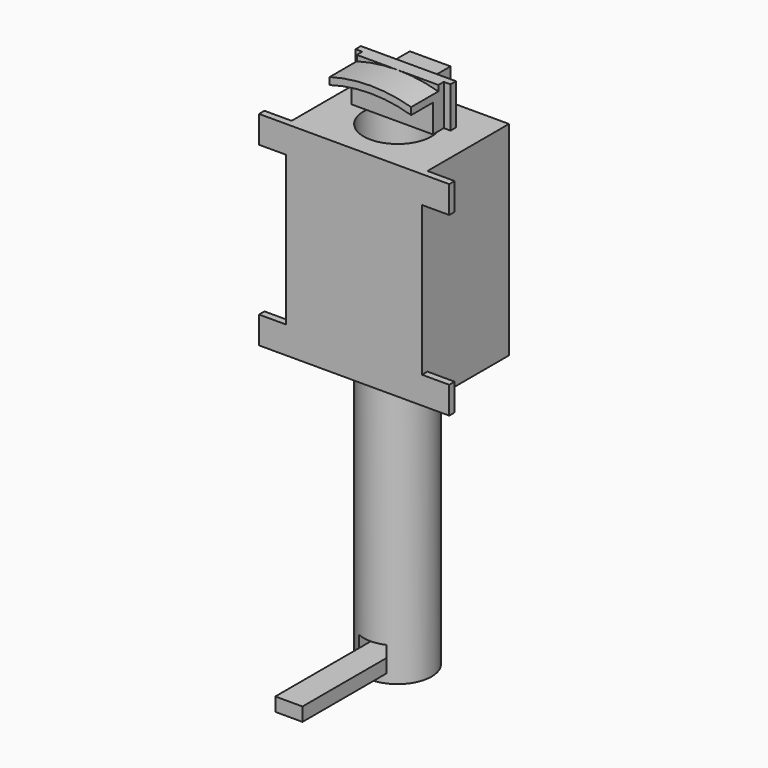
from build123d import *

# Parameters (mm, degrees)
F0_R      = 55
F1_DEPTH  = 12.5
F2_T      = -2.5
F4_DEPTH  = 25
F5_W      = 2.5
F5_H      = 2.5
F6_DEPTH  = 15
F7_W      = 15
F7_H      = 10
F8_DEPTH  = 10
F9_W      = 10
F9_H      = 5
F10_DEPTH = 7.5
F11_W     = 50
F11_H     = 75
F12_DEPTH = 20
F13_R     = 12.5
F14_DEPTH = 75
F15_W     = 10
F15_H     = 10
F16_DEPTH = 2.5
F18_DEPTH = 100
F17_W     = 10
F17_H     = 5
F19_DEPTH = 40
F20_W     = 10
F20_H     = 5
F21_DEPTH = 50


with BuildPart() as f1:
    # F0 (on Front) → F1 (new body)
    with BuildSketch(Plane.XZ):
        Circle(F0_R)
    extrude(amount=F1_DEPTH)

    # F2
    f2_openings = [f1.faces().sort_by_distance(p)[0] for p in [
        (0, -12.5, 0),
    ]]
    offset(amount=F2_T, openings=f2_openings)

    # F3 (on face) → F4 (cut)
    with BuildSketch(Plane.XZ.offset(12.5)):
        with BuildLine():
            Line((-15, 40), (-15, 50.3115294937))
            ThreePointArc((-15, 50.3115294937), (-31.374750995, -42.0936456012), (52.5, 0))
            ThreePointArc((52.5, 0), (42.0936456012, 31.374750995), (15, 50.3115294937))
            Line((15, 50.3115294937), (15, 40))
            Line((15, 40), (-15, 40))
        make_face()
        with BuildLine():
            ThreePointArc((-15, 52.9150262213), (-43.8748219325, 33.1662479094), (-55, 1.48e-08))
            ThreePointArc((-55, 1.48e-08), (-38.8908729315, -38.8908729991), (1.104e-07, -55))
            ThreePointArc((1.104e-07, -55), (38.8908730043, -38.8908729262), (55, 0))
            ThreePointArc((55, 0), (43.874821937, 33.1662479036), (15, 52.9150262213))
            Line((15, 52.9150262213), (15, 50.3115294937))
            ThreePointArc((15, 50.3115294937), (42.0936456012, 31.374750995), (52.5, 0))
            ThreePointArc((52.5, 0), (-31.374750995, -42.0936456012), (-15, 50.3115294937))
            Line((-15, 50.3115294937), (-15, 52.9150262213))
        make_face()
    extrude(amount=-F4_DEPTH, mode=Mode.SUBTRACT)

    # F5 (on face) → F6 (join)
    with BuildSketch(Plane(origin=(0, 0, 40), x_dir=(1, 0, 0), z_dir=(0, 0, -1))):
        Polygon((15, 0), (-15, 0), (-15, -2.5), (-15, -5), (15, -5), (15, -2.5), align=None)
        with Locations((16.25, -3.75)):
            Rectangle(F5_W, F5_H)
        with Locations((-16.25, -3.75)):
            Rectangle(F5_W, F5_H)
    extrude(amount=-F6_DEPTH)

    # F7 (on face) → F8 (join)
    with BuildSketch(Plane(origin=(0, 5, 0), x_dir=(-1, 0, 0), z_dir=(0, 1, 0))):
        with Locations((0, 47.5)):
            Rectangle(F7_W, F7_H)
    extrude(amount=F8_DEPTH)

    # F9 (on face) → F10 (cut)
    with BuildSketch(Plane(origin=(0, 15, 0), x_dir=(-1, 0, 0), z_dir=(0, 1, 0))):
        with Locations((0, 47.5)):
            Rectangle(F9_W, F9_H)
    extrude(amount=-F10_DEPTH, mode=Mode.SUBTRACT)


with BuildPart() as f12:
    # F11 (on Front) → F12 (new body, symmetric)
    with BuildSketch(Plane.XZ):
        Rectangle(F11_W, F11_H)
    extrude(amount=F12_DEPTH, both=True)

    # F13 (on face) → F14 (cut)
    with BuildSketch(Plane(origin=(0, 0, -37.5), x_dir=(1, 0, 0), z_dir=(0, 0, -1))):
        Circle(F13_R)
    extrude(amount=-F14_DEPTH, mode=Mode.SUBTRACT)

    # F15 (on face) → F16 (join)
    with BuildSketch(Plane.XZ.offset(20)):
        with Locations((-30, 32.5)):
            Rectangle(F15_W, F15_H)
        with Locations((30, 32.5)):
            Rectangle(F15_W, F15_H)
        with Locations((-30, -32.5)):
            Rectangle(F15_W, F15_H)
        with Locations((30, -32.5)):
            Rectangle(F15_W, F15_H)
    extrude(amount=-F16_DEPTH)


with BuildPart() as f18:
    # F13 (on face) → F18 (new body)
    with BuildSketch(Plane(origin=(0, 0, -37.5), x_dir=(1, 0, 0), z_dir=(0, 0, -1))):
        Circle(F13_R)
    extrude(amount=F18_DEPTH)

    # F17 (on face) → F19 (cut)
    with BuildSketch(Plane(origin=(0, 20, 0), x_dir=(-1, 0, 0), z_dir=(0, 1, 0))):
        with Locations((0, -127.5)):
            Rectangle(F17_W, F17_H)
    extrude(amount=-F19_DEPTH, mode=Mode.SUBTRACT)


with BuildPart() as f21:
    # F20 (on Front) → F21 (new body)
    with BuildSketch(Plane.XZ):
        with Locations((0, -131.7869126797)):
            Rectangle(F20_W, F20_H)
    extrude(amount=F21_DEPTH)


solid = Compound([f1.part, f12.part, f18.part, f21.part])
